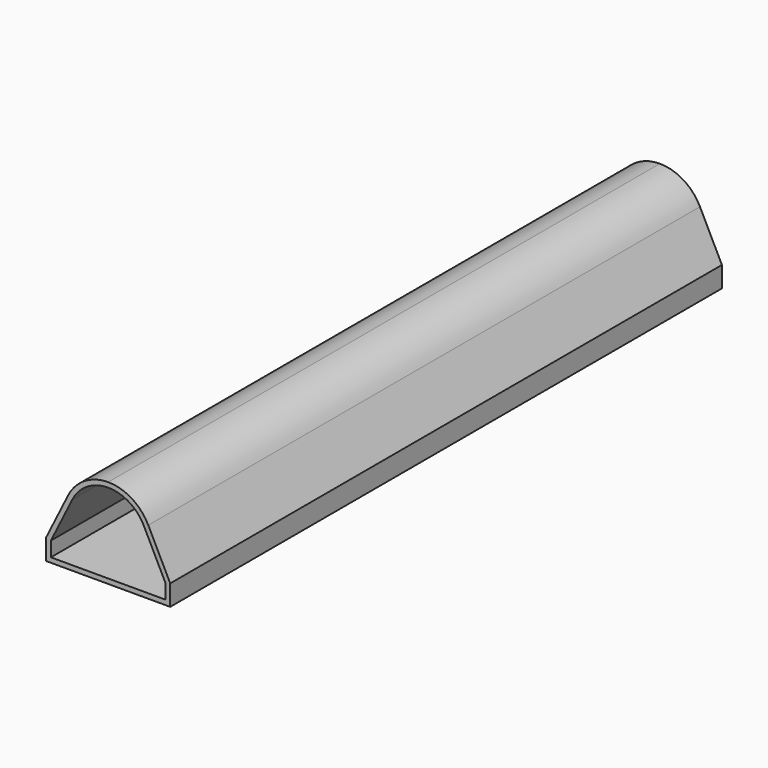
from build123d import *

# Parameters (mm, degrees)
F1_DEPTH = 1000


with BuildPart() as f1:
    # F0 (on Front) → F1 (new body)
    with BuildSketch(Plane.XZ):
        with BuildLine():
            Line((-90, -65), (0, -65))
            Line((0, -65), (90, -65))
            Line((90, -65), (90, -35))
            Line((90, -35), (58.200268, 28.943546))
            ThreePointArc((58.200268, 28.943546), (34.232072, 55.255454), (0, 65))
            ThreePointArc((0, 65), (-34.232072, 55.255454), (-58.200268, 28.943546))
            Line((-58.200268, 28.943546), (-90, -35))
            Line((-90, -35), (-90, -65))
        make_face()
        with BuildLine():
            ThreePointArc((0, 58), (30.545541, 49.304867), (51.932547, 25.826548))
            Line((51.932547, 25.826548), (83, -36.644516))
            Line((83, -36.644516), (83, -58))
            Line((83, -58), (0, -58))
            Line((0, -58), (-83, -58))
            Line((-83, -58), (-83, -36.644516))
            Line((-83, -36.644516), (-51.932547, 25.826548))
            ThreePointArc((-51.932547, 25.826548), (-30.545541, 49.304867), (0, 58))
        make_face(mode=Mode.SUBTRACT)
    extrude(amount=F1_DEPTH)


solid = f1.part
